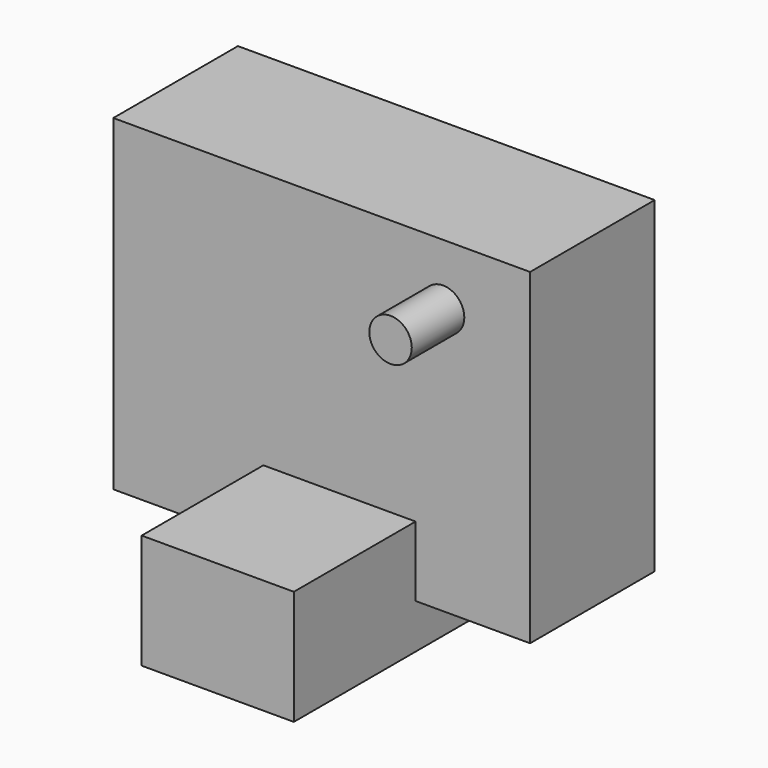
from build123d import *

# Parameters (mm, degrees)
F0_W     = 97.109213
F0_H     = 76.168887
F1_DEPTH = 36.286205
F2_R     = 4.947674
F3_DEPTH = 51.584408
F4_W     = 35.460181
F4_H     = 26.693367
F5_DEPTH = 71.737379


with BuildPart() as f1:
    # F0 (on Front) → F1 (new body)
    with BuildSketch(Plane.XZ):
        with Locations((6.184138, -6.245349)):
            Rectangle(F0_W, F0_H)
    extrude(amount=F1_DEPTH)

    # F2 (on Front) → F3 (join)
    with BuildSketch(Plane.XZ):
        with Locations((34.461668, 17.535143)):
            Circle(F2_R)
    extrude(amount=F3_DEPTH)

    # F4 (on Front) → F5 (join)
    with BuildSketch(Plane.XZ):
        with Locations((10.323982, -41.378926)):
            Rectangle(F4_W, F4_H)
    extrude(amount=F5_DEPTH)


solid = f1.part
